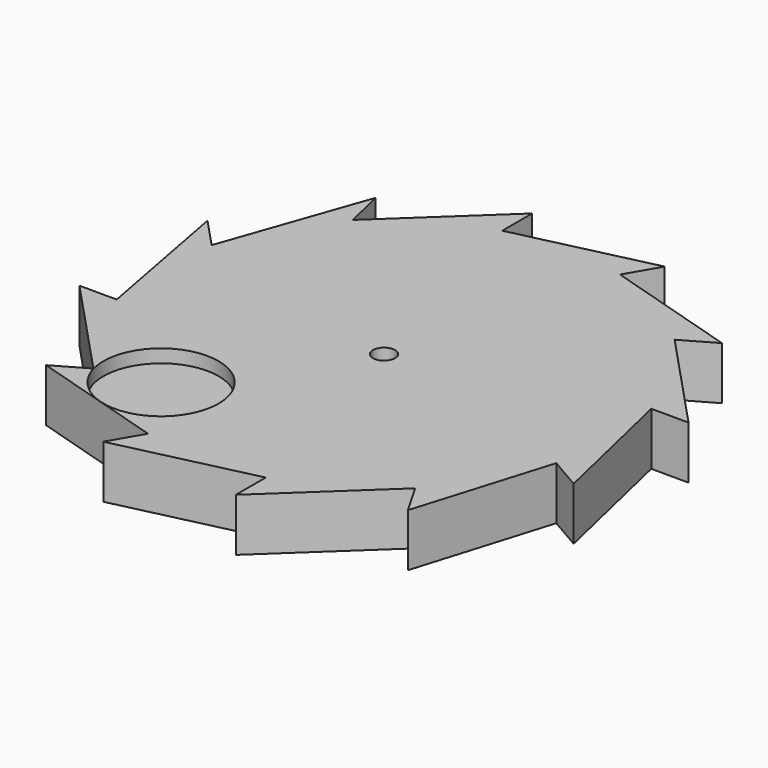
from build123d import *

# Parameters (mm, degrees)
F0_R     = 2.5
F1_DEPTH = 12
F2_R     = 13.046664
F3_DEPTH = 3


with BuildPart() as f1:
    # F0 (on Top) → F1 (new body)
    with BuildSketch(Plane.XY):
        Polygon((49.951694, -13.576459), (50.047665, 13.218289), (36.733405, 36.471206), (13.576459, 49.951694), (-13.218289, 50.047665), (-36.471206, 36.733405), (-49.951694, 13.576459), (-50.047665, -13.218289), (-36.733405, -36.471206), (-13.576459, -49.951694), (13.218289, -50.047665), (36.471206, -36.733405), align=None)
        Circle(F0_R, mode=Mode.SUBTRACT)
        Polygon((-36.471206, 36.733405), (-38.61255, 45.924623), (-49.951694, 13.576459), align=None)
        Polygon((-13.218289, 50.047665), (-13.218289, 58.525865), (-36.471206, 36.733405), align=None)
        Polygon((-50.047665, -13.218289), (-58.53272, -13.187897), (-36.733405, -36.471206), align=None)
        Polygon((-49.951694, 13.576459), (-56.403546, 20.460693), (-50.047665, -13.218289), align=None)
        Polygon((-36.733405, -36.471206), (-44.096874, -40.687414), (-13.576459, -49.951694), align=None)
        Polygon((13.576459, 49.951694), (17.845306, 57.284772), (-13.218289, 50.047665), align=None)
        Polygon((36.733405, 36.471206), (44.096874, 40.687414), (13.576459, 49.951694), align=None)
        Polygon((50.047665, 13.218289), (58.53272, 13.187897), (36.733405, 36.471206), align=None)
        Polygon((49.951694, -13.576459), (57.284772, -17.845306), (50.047665, 13.218289), align=None)
        Polygon((36.471206, -36.733405), (40.687414, -44.096874), (49.951694, -13.576459), align=None)
        Polygon((13.218289, -50.047665), (13.218289, -58.525865), (36.471206, -36.733405), align=None)
        Polygon((-13.576459, -49.951694), (-17.845306, -57.284772), (13.218289, -50.047665), align=None)
    extrude(amount=F1_DEPTH)

    # F2 (on face) → F3 (cut)
    with BuildSketch(Plane.XY.offset(12)):
        with Locations((-24.073549, -33.114996)):
            Circle(F2_R)
    extrude(amount=-F3_DEPTH, mode=Mode.SUBTRACT)


solid = f1.part
